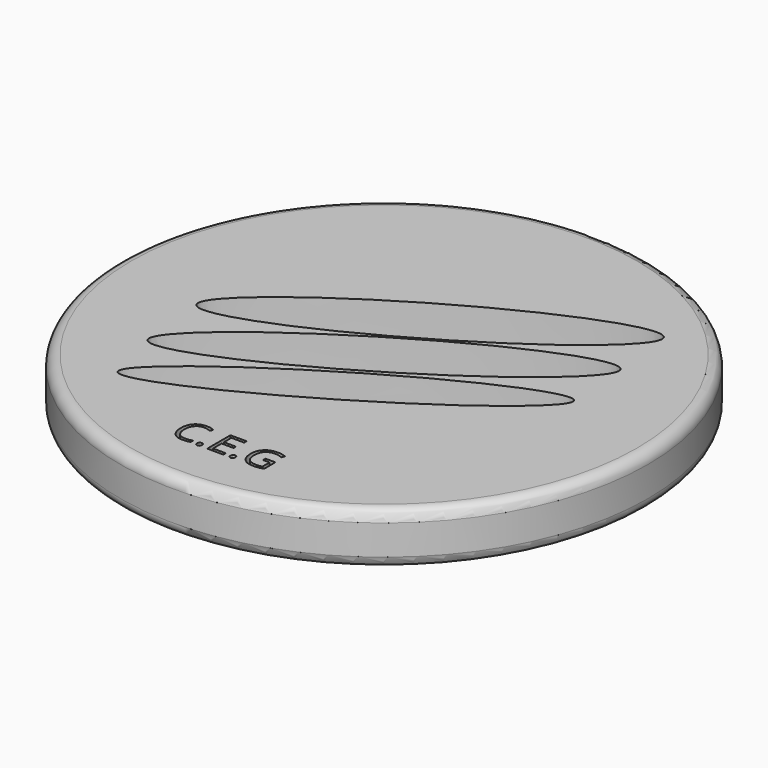
from build123d import *

# Parameters (mm, degrees)
F1_R     = 12.125
F2_DEPTH = 2.38
F3_R     = 0.5


with BuildPart() as f2:
    # F1 (on Top) → F2 (new body)
    with BuildSketch(Plane.XY):
        Circle(F1_R)
        with BuildLine():
            add(Edge.make_bspline(
                [(-0.8998456912, -9.666339638), (-0.9302993652, -9.6376345003), (-0.9302993652, -9.5720643888)],
                knots=[0, 0, 0, 1, 1, 1], degree=2))
            add(Edge.make_bspline(
                [(-0.9302993652, -9.5720643888), (-0.9302993652, -9.5108656181), (-0.9024684956, -9.479537676)],
                knots=[0, 0, 0, 1, 1, 1], degree=2))
            add(Edge.make_bspline(
                [(-0.9024684956, -9.479537676), (-0.8746376261, -9.4482097338), (-0.8227643824, -9.4482097338)],
                knots=[0, 0, 0, 1, 1, 1], degree=2))
            add(Edge.make_bspline(
                [(-0.8227643824, -9.4482097338), (-0.7700168705, -9.4482097338), (-0.7404374646, -9.479537676)],
                knots=[0, 0, 0, 1, 1, 1], degree=2))
            add(Edge.make_bspline(
                [(-0.7404374646, -9.479537676), (-0.7108580588, -9.5108656181), (-0.7108580588, -9.5720643888)],
                knots=[0, 0, 0, 1, 1, 1], degree=2))
            add(Edge.make_bspline(
                [(-0.7108580588, -9.5720643888), (-0.7108580588, -9.6312232005), (-0.7408745987, -9.6631339881)],
                knots=[0, 0, 0, 1, 1, 1], degree=2))
            add(Edge.make_bspline(
                [(-0.7408745987, -9.6631339881), (-0.7708911386, -9.6950447757), (-0.8227643824, -9.6950447757)],
                knots=[0, 0, 0, 1, 1, 1], degree=2))
            add(Edge.make_bspline(
                [(-0.8227643824, -9.6950447757), (-0.8693920172, -9.6950447757), (-0.8998456912, -9.666339638)],
                knots=[0, 0, 0, 1, 1, 1], degree=2))
        make_face(mode=Mode.SUBTRACT)
        with BuildLine():
            add(Edge.make_bspline(
                [(-1.1899570066, -8.527313946), (-1.3412053971, -8.4564982256), (-1.4924537876, -8.4564982256)],
                knots=[0, 0, 0, 1, 1, 1], degree=2))
            add(Edge.make_bspline(
                [(-1.4924537876, -8.4564982256), (-1.711895094, -8.4564982256), (-1.8389553989, -8.6026467185)],
                knots=[0, 0, 0, 1, 1, 1], degree=2))
            add(Edge.make_bspline(
                [(-1.8389553989, -8.6026467185), (-1.9660157038, -8.7487952114), (-1.9660157038, -9.0029158212)],
                knots=[0, 0, 0, 1, 1, 1], degree=2))
            add(Edge.make_bspline(
                [(-1.9660157038, -9.0029158212), (-1.9660157038, -9.2640305763), (-1.843472451, -9.4066819966)],
                knots=[0, 0, 0, 1, 1, 1], degree=2))
            add(Edge.make_bspline(
                [(-1.843472451, -9.4066819966), (-1.7209291982, -9.5493334168), (-1.4942023239, -9.5493334168)],
                knots=[0, 0, 0, 1, 1, 1], degree=2))
            add(Edge.make_bspline(
                [(-1.4942023239, -9.5493334168), (-1.3549022648, -9.5493334168), (-1.1762601389, -9.4992087094)],
                knots=[0, 0, 0, 1, 1, 1], degree=2))
            Line((-1.1762601389, -9.4992087094), (-1.1762601389, -9.6347202731))
            add(Edge.make_bspline(
                [(-1.1762601389, -9.6347202731), (-1.3146859298, -9.6868849396), (-1.517807564, -9.6868849396)],
                knots=[0, 0, 0, 1, 1, 1], degree=2))
            add(Edge.make_bspline(
                [(-1.517807564, -9.6868849396), (-1.8118530861, -9.6868849396), (-1.9716984467, -9.5082428137)],
                knots=[0, 0, 0, 1, 1, 1], degree=2))
            add(Edge.make_bspline(
                [(-1.9716984467, -9.5082428137), (-2.1315438074, -9.3296006877), (-2.1315438074, -9.0008758622)],
                knots=[0, 0, 0, 1, 1, 1], degree=2))
            add(Edge.make_bspline(
                [(-2.1315438074, -9.0008758622), (-2.1315438074, -8.7951314235), (-2.0546082099, -8.6403859605)],
                knots=[0, 0, 0, 1, 1, 1], degree=2))
            add(Edge.make_bspline(
                [(-2.0546082099, -8.6403859605), (-1.9776726125, -8.4856404974), (-1.8323983877, -8.4018564661)],
                knots=[0, 0, 0, 1, 1, 1], degree=2))
            add(Edge.make_bspline(
                [(-1.8323983877, -8.4018564661), (-1.687124163, -8.3180724347), (-1.4904138285, -8.3180724347)],
                knots=[0, 0, 0, 1, 1, 1], degree=2))
            add(Edge.make_bspline(
                [(-1.4904138285, -8.3180724347), (-1.2811723172, -8.3180724347), (-1.1243868951, -8.3944251868)],
                knots=[0, 0, 0, 1, 1, 1], degree=2))
            Line((-1.1243868951, -8.3944251868), (-1.1899570066, -8.527313946))
        make_face(mode=Mode.SUBTRACT)
        Polygon((0.3528348607, -9.5300995175), (0.3528348607, -9.6685253084), (-0.3894188012, -9.6685253084), (-0.3894188012, -8.3370149114), (0.3528348607, -8.3370149114), (0.3528348607, -8.4745664341), (-0.2346733381, -8.4745664341), (-0.2346733381, -8.9035406745), (0.3172812891, -8.9035406745), (0.3172812891, -9.0402179291), (-0.2346733381, -9.0402179291), (-0.2346733381, -9.5300995175), align=None, mode=Mode.SUBTRACT)
        with BuildLine():
            add(Edge.make_bspline(
                [(0.6336206491, -9.666339638), (0.6031669751, -9.6376345003), (0.6031669751, -9.5720643888)],
                knots=[0, 0, 0, 1, 1, 1], degree=2))
            add(Edge.make_bspline(
                [(0.6031669751, -9.5720643888), (0.6031669751, -9.5108656181), (0.6309978447, -9.479537676)],
                knots=[0, 0, 0, 1, 1, 1], degree=2))
            add(Edge.make_bspline(
                [(0.6309978447, -9.479537676), (0.6588287142, -9.4482097338), (0.710701958, -9.4482097338)],
                knots=[0, 0, 0, 1, 1, 1], degree=2))
            add(Edge.make_bspline(
                [(0.710701958, -9.4482097338), (0.7634494699, -9.4482097338), (0.7930288757, -9.479537676)],
                knots=[0, 0, 0, 1, 1, 1], degree=2))
            add(Edge.make_bspline(
                [(0.7930288757, -9.479537676), (0.8226082815, -9.5108656181), (0.8226082815, -9.5720643888)],
                knots=[0, 0, 0, 1, 1, 1], degree=2))
            add(Edge.make_bspline(
                [(0.8226082815, -9.5720643888), (0.8226082815, -9.6312232005), (0.7925917416, -9.6631339881)],
                knots=[0, 0, 0, 1, 1, 1], degree=2))
            add(Edge.make_bspline(
                [(0.7925917416, -9.6631339881), (0.7625752017, -9.6950447757), (0.710701958, -9.6950447757)],
                knots=[0, 0, 0, 1, 1, 1], degree=2))
            add(Edge.make_bspline(
                [(0.710701958, -9.6950447757), (0.6640743231, -9.6950447757), (0.6336206491, -9.666339638)],
                knots=[0, 0, 0, 1, 1, 1], degree=2))
        make_face(mode=Mode.SUBTRACT)
        with BuildLine():
            Line((1.7298072016, -9.1092851132), (1.7298072016, -8.9708593223))
            Line((1.7298072016, -8.9708593223), (2.1823866822, -8.9708593223))
            Line((2.1823866822, -8.9708593223), (2.1823866822, -9.6184006009))
            add(Edge.make_bspline(
                [(2.1823866822, -9.6184006009), (2.0766002356, -9.6522056362), (1.9673167165, -9.6695452879)],
                knots=[0, 0, 0, 1, 1, 1], degree=2))
            add(Edge.make_bspline(
                [(1.9673167165, -9.6695452879), (1.8580331974, -9.6868849396), (1.7140703749, -9.6868849396)],
                knots=[0, 0, 0, 1, 1, 1], degree=2))
            add(Edge.make_bspline(
                [(1.7140703749, -9.6868849396), (1.4118650167, -9.6868849396), (1.2434226859, -9.5069314114)],
                knots=[0, 0, 0, 1, 1, 1], degree=2))
            add(Edge.make_bspline(
                [(1.2434226859, -9.5069314114), (1.074980355, -9.3269778833), (1.074980355, -9.0029158212)],
                knots=[0, 0, 0, 1, 1, 1], degree=2))
            add(Edge.make_bspline(
                [(1.074980355, -9.0029158212), (1.074980355, -8.7951314235), (1.1583272523, -8.6389288469)],
                knots=[0, 0, 0, 1, 1, 1], degree=2))
            add(Edge.make_bspline(
                [(1.1583272523, -8.6389288469), (1.2416741495, -8.4827262702), (1.3983138603, -8.4003993525)],
                knots=[0, 0, 0, 1, 1, 1], degree=2))
            add(Edge.make_bspline(
                [(1.3983138603, -8.4003993525), (1.554953571, -8.3180724347), (1.7650693505, -8.3180724347)],
                knots=[0, 0, 0, 1, 1, 1], degree=2))
            add(Edge.make_bspline(
                [(1.7650693505, -8.3180724347), (1.9783907798, -8.3180724347), (2.1622785146, -8.3961737231)],
                knots=[0, 0, 0, 1, 1, 1], degree=2))
            Line((2.1622785146, -8.3961737231), (2.1022454348, -8.5328509776))
            add(Edge.make_bspline(
                [(2.1022454348, -8.5328509776), (1.9218547726, -8.4564982256), (1.7551609781, -8.4564982256)],
                knots=[0, 0, 0, 1, 1, 1], degree=2))
            add(Edge.make_bspline(
                [(1.7551609781, -8.4564982256), (1.5121144315, -8.4564982256), (1.375437177, -8.6011896049)],
                knots=[0, 0, 0, 1, 1, 1], degree=2))
            add(Edge.make_bspline(
                [(1.375437177, -8.6011896049), (1.2387599224, -8.7458809843), (1.2387599224, -9.0029158212)],
                knots=[0, 0, 0, 1, 1, 1], degree=2))
            add(Edge.make_bspline(
                [(1.2387599224, -9.0029158212), (1.2387599224, -9.2724818351), (1.3703372794, -9.4117818941)],
                knots=[0, 0, 0, 1, 1, 1], degree=2))
            add(Edge.make_bspline(
                [(1.3703372794, -9.4117818941), (1.5019146364, -9.5510819532), (1.7569095144, -9.5510819532)],
                knots=[0, 0, 0, 1, 1, 1], degree=2))
            add(Edge.make_bspline(
                [(1.7569095144, -9.5510819532), (1.8953353053, -9.5510819532), (2.0273497964, -9.5190254542)],
                knots=[0, 0, 0, 1, 1, 1], degree=2))
            Line((2.0273497964, -9.5190254542), (2.0273497964, -9.1092851132))
            Line((2.0273497964, -9.1092851132), (1.7298072016, -9.1092851132))
        make_face(mode=Mode.SUBTRACT)
        with BuildLine():
            add(Edge.make_bspline(
                [(7.548970636, 1.469215611), (6.5921111767, 3.0702973064), (-3.5675583884, -4.0879240818), (-13.7272279535, -11.2461454701), (-2.6106989291, -5.6890057772), (8.5058300952, -0.1318660844), (7.548970636, 1.469215611)],
                knots=[0, 0, 0, 2.0943951024, 2.0943951024, 4.1887902048, 4.1887902048, 6.2831853072, 6.2831853072, 6.2831853072], degree=2, weights=[1, 0.5, 1, 0.5, 1, 0.5, 1]))
        make_face(mode=Mode.SUBTRACT)
        with BuildLine():
            add(Edge.make_bspline(
                [(7.0034274831, 7.3023349978), (5.8078204716, 9.373931465), (-4.6101599889, 1.9804526909), (-15.0281404494, -5.4130260833), (-3.4145529774, -0.0911437763), (8.1990344946, 5.2307385306), (7.0034274831, 7.3023349978)],
                knots=[0, 0, 0, 2.0943951024, 2.0943951024, 4.1887902048, 4.1887902048, 6.2831853072, 6.2831853072, 6.2831853072], degree=2, weights=[1, 0.5, 1, 0.5, 1, 0.5, 1]))
        make_face(mode=Mode.SUBTRACT)
        with BuildLine():
            add(Edge.make_bspline(
                [(7.3391464539, 4.4067576528), (6.1391810401, 6.4052160671), (-4.2695559338, -1.2041496192), (-14.6782929078, -8.8135153055), (-3.0695905201, -3.2026080335), (8.5391118676, 2.4082992384), (7.3391464539, 4.4067576528)],
                knots=[0, 0, 0, 2.0943951024, 2.0943951024, 4.1887902048, 4.1887902048, 6.2831853072, 6.2831853072, 6.2831853072], degree=2, weights=[1, 0.5, 1, 0.5, 1, 0.5, 1]))
        make_face(mode=Mode.SUBTRACT)
    extrude(amount=F2_DEPTH)

    # F3
    f3_edges = [f2.edges().sort_by_distance(p)[0] for p in [
        (-12.125, 0, 2.38),
        (-12.125, 0, 0),
    ]]
    fillet(f3_edges, radius=F3_R)


solid = f2.part
